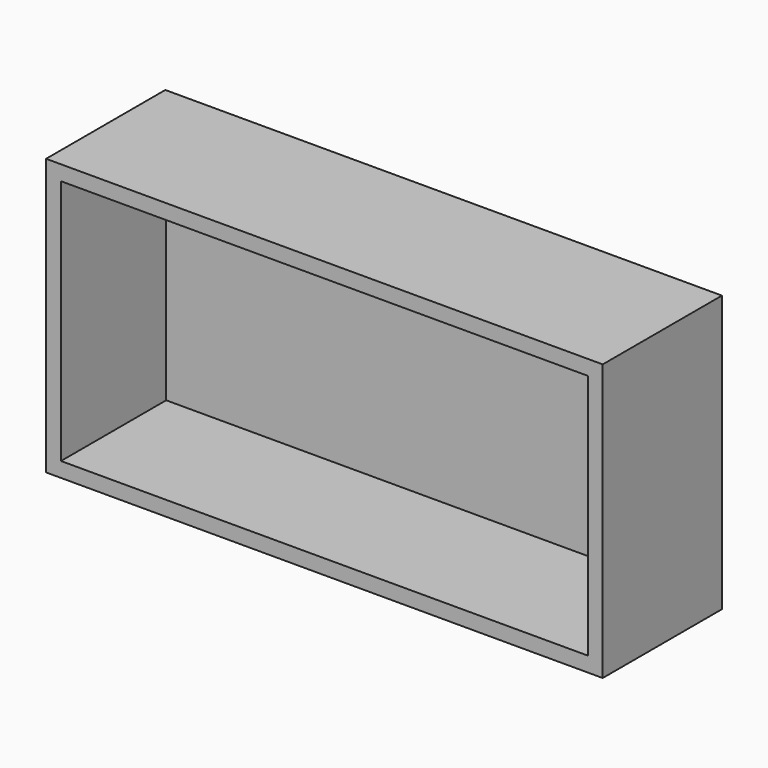
from build123d import *

# Parameters (mm, degrees)
F0_W     = 31.75
F0_H     = 15.75
F0_W_2   = 30.05
F0_H_2   = 14.05
F1_DEPTH = 1
F2_DEPTH = 8.5


with BuildPart() as f1:
    # F0 (on Front) → F1 (new body)
    with BuildSketch(Plane.XZ):
        Rectangle(F0_W, F0_H)
        Rectangle(F0_W_2, F0_H_2, mode=Mode.SUBTRACT)
        Rectangle(F0_W_2, F0_H_2)
    extrude(amount=F1_DEPTH)

    # F0 (on Front) → F2 (join)
    with BuildSketch(Plane.XZ):
        Rectangle(F0_W, F0_H)
        Rectangle(F0_W_2, F0_H_2, mode=Mode.SUBTRACT)
    extrude(amount=F2_DEPTH)


solid = f1.part
